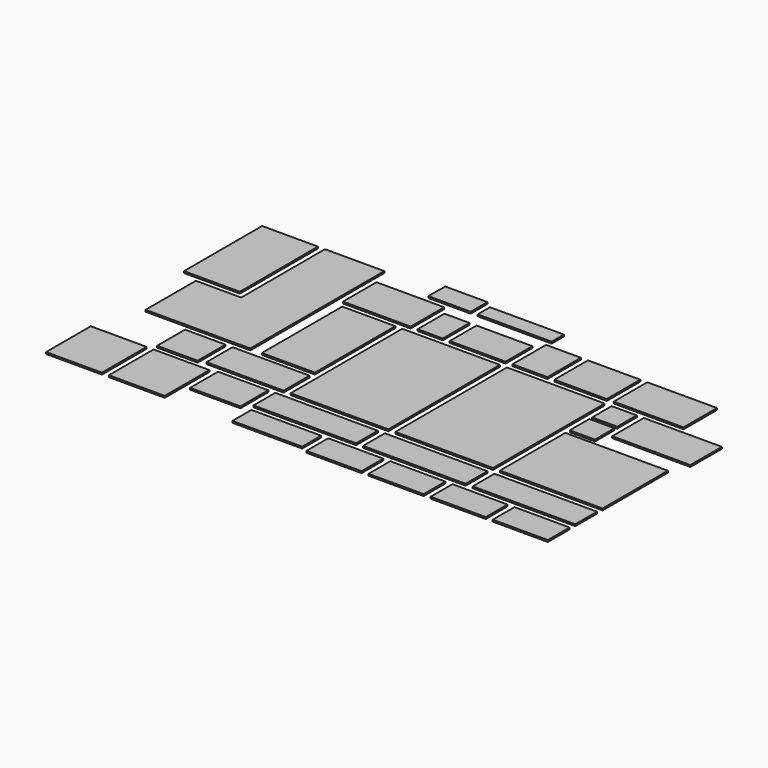
from build123d import *

# Parameters (mm, degrees)
F0_W     = 500
F0_H     = 600
F0_W_2   = 750
F0_W_3   = 1000
F0_W_4   = 1400
F0_H_2   = 2000
F0_W_5   = 360
F0_H_3   = 350
F0_W_6   = 1470
F0_H_4   = 1170
F0_W_7   = 800
F0_H_5   = 480
F0_W_8   = 970
F0_W_9   = 760
F0_H_6   = 1440
F0_W_10  = 1105
F0_H_7   = 465
F0_W_11  = 1060
F0_H_8   = 220
F0_W_12  = 605
F0_H_9   = 300
F0_W_13  = 1120
F0_H_10  = 565
F0_H_11  = 390
F0_W_14  = 790
F0_W_15  = 580
F0_H_12  = 500
F0_W_16  = 720
F0_H_13  = 340
F0_H_14  = 800
F0_H_15  = 1400
F1_DEPTH = 25


with BuildPart() as f1:
    # F0 (on Top) → F1 (new body)
    with BuildSketch(Plane.XY):
        with Locations((250, 300)):
            Rectangle(F0_W, F0_H)
        with Locations((975, 300)):
            Rectangle(F0_W_2, F0_H)
        with Locations((1950, 300)):
            Rectangle(F0_W_3, F0_H)
        with Locations((700, -1100)):
            Rectangle(F0_W_4, F0_H_2)
        with Locations((1680, -275)):
            Rectangle(F0_W_5, F0_H_3)
        with Locations((1680, -675)):
            Rectangle(F0_W_5, F0_H_3)
        with Locations((-800, -1100)):
            Rectangle(F0_W_4, F0_H_2)
        with Locations((2235, -1515)):
            Rectangle(F0_W_6, F0_H_4)
        with Locations((-500, 240)):
            Rectangle(F0_W_7, F0_H_5)
        with Locations((-1180, 240)):
            Rectangle(F0_W_5, F0_H_5)
        with Locations((-1945, 300)):
            Rectangle(F0_W_8, F0_H)
        with Locations((-1980, -820)):
            Rectangle(F0_W_9, F0_H_6)
        with Locations((-2152.5, -1867.5)):
            Rectangle(F0_W_10, F0_H_7)
        with Locations((-530, 810)):
            Rectangle(F0_W_11, F0_H_8)
        with Locations((-1462.5, 850)):
            Rectangle(F0_W_12, F0_H_9)
        with Locations((2520, -382.5)):
            Rectangle(F0_W_13, F0_H_10)
        Polygon((-4030, -1535), (-2530, -1535), (-2530, 865), (-3380, 865), (-3380, -635), (-4030, -635), align=None)
        with Locations((2235, -2395)):
            Rectangle(F0_W_6, F0_H_11)
        with Locations((665, -2395)):
            Rectangle(F0_W_6, F0_H_11)
        with Locations((-905, -2395)):
            Rectangle(F0_W_6, F0_H_11)
        with Locations((2575, -2885)):
            Rectangle(F0_W_14, F0_H_11)
        with Locations((1685, -2885)):
            Rectangle(F0_W_14, F0_H_11)
        with Locations((795, -2885)):
            Rectangle(F0_W_14, F0_H_11)
        with Locations((-95, -2885)):
            Rectangle(F0_W_14, F0_H_11)
        with Locations((-3095, -1885)):
            Rectangle(F0_W_15, F0_H_12)
        with Locations((-2100, -2450)):
            Rectangle(F0_W_16, F0_H_12)
        with Locations((-1090, -2860)):
            Rectangle(F0_W_3, F0_H_13)
        with Locations((-2960, -2630)):
            Rectangle(F0_W_7, F0_H_14)
        with Locations((-3860, -2630)):
            Rectangle(F0_W_7, F0_H_14)
        with Locations((-3880, 165)):
            Rectangle(F0_W_7, F0_H_15)
    extrude(amount=F1_DEPTH)


solid = f1.part
